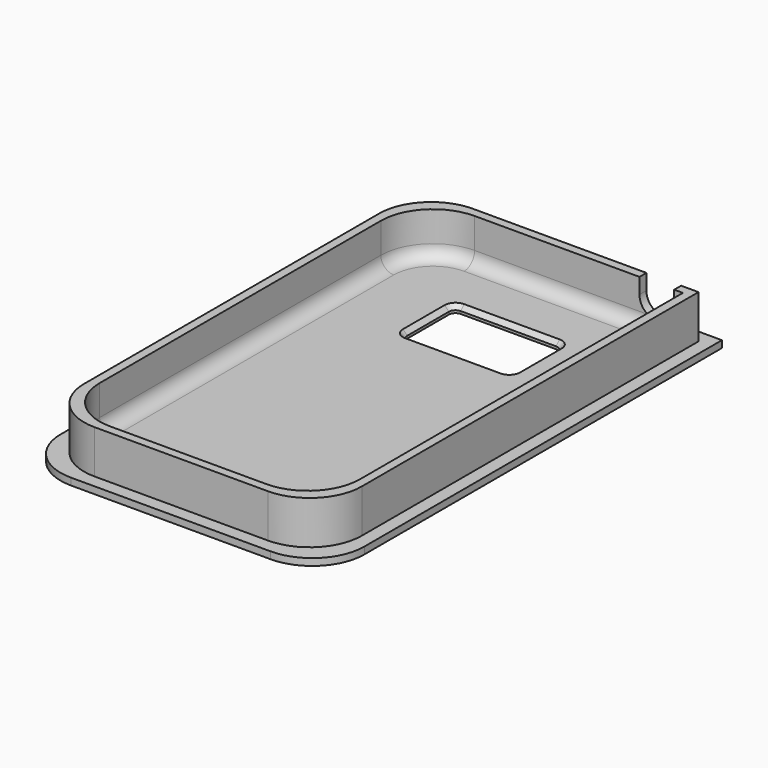
from build123d import *

# Parameters (mm, degrees)
PAD_DEPTH       = 1.6
PAD001_DEPTH    = 10
SKETCH004_R     = 1
POCKET_DEPTH    = 67.001
POCKET001_DEPTH = 5
CHAMFER_SIZE    = 1
FILLET_R        = 3
POCKET002_DEPTH = 5


with BuildPart() as part:
    # Sketch → Pad (new body)
    with BuildSketch(Plane.XY):
        with BuildLine():
            Line((12, 0), (58, 0))
            ThreePointArc((58, 0), (66.485281, 3.514719), (70, 12))
            Line((70, 12), (70, 115))
            Line((70, 115), (12, 115))
            ThreePointArc((12, 115), (3.514719, 111.485281), (0, 103))
            Line((0, 103), (0, 12))
            ThreePointArc((0, 12), (3.514719, 3.514719), (12, 0))
        make_face()
    extrude(amount=PAD_DEPTH)

    # Sketch001 → Pad001 (new body)
    with BuildSketch(Plane.XY.offset(1.6)):
        with BuildLine():
            Line((15, 3), (55, 3))
            ThreePointArc((55, 3), (63.485281, 6.514719), (67, 15))
            Line((67, 15), (67, 112))
            Line((67, 112), (15, 112))
            ThreePointArc((15, 112), (6.514719, 108.485281), (3, 100))
            Line((3, 100), (3, 15))
            ThreePointArc((3, 15), (6.514719, 6.514719), (15, 3))
        make_face()
        with BuildLine():
            Line((17, 5), (53, 5))
            ThreePointArc((53, 5), (61.485281, 8.514719), (65, 17))
            Line((65, 17), (65, 110))
            Line((65, 110), (17, 110))
            ThreePointArc((17, 110), (8.514719, 106.485281), (5, 98))
            Line((5, 98), (5, 17))
            ThreePointArc((5, 17), (8.514719, 8.514719), (17, 5))
        make_face(mode=Mode.SUBTRACT)
    extrude(amount=PAD001_DEPTH)

    # Sketch004 → Pocket (cut, through all)
    with BuildSketch(Plane.YZ.offset(67)):
        with Locations((-62, 7.1)):
            Circle(SKETCH004_R)
    extrude(amount=-POCKET_DEPTH, mode=Mode.SUBTRACT)

    # Sketch005 → Pocket001 (cut)
    with BuildSketch(Plane.XY.offset(1.6)):
        with BuildLine():
            Line((25, 96), (47, 96))
            ThreePointArc((48.5, 94.5), (48.06066, 95.56066), (47, 96))
            Line((48.5, 94.5), (48.5, 82.5))
            ThreePointArc((47, 81), (48.06066, 81.43934), (48.5, 82.5))
            Line((47, 81), (25, 81))
            ThreePointArc((23.5, 82.5), (23.93934, 81.43934), (25, 81))
            Line((23.5, 82.5), (23.5, 94.5))
            ThreePointArc((25, 96), (23.93934, 95.56066), (23.5, 94.5))
        make_face()
    extrude(amount=-POCKET001_DEPTH, mode=Mode.SUBTRACT)

    # Chamfer
    chamfer_edges = [part.edges().sort_by_distance(p)[0] for p in [
        (48.5, 88.5, 1.6),
        (48.06066, 95.56066, 1.6),
        (36, 96, 1.6),
        (23.93934, 95.56066, 1.6),
        (23.5, 88.5, 1.6),
        (23.93934, 81.43934, 1.6),
        (36, 81, 1.6),
        (48.06066, 81.43934, 1.6),
    ]]
    chamfer(chamfer_edges, length=CHAMFER_SIZE)

    # Fillet
    fillet_edges = [part.edges().sort_by_distance(p)[0] for p in [
        (41, 110, 1.6),
        (8.514719, 106.485281, 1.6),
        (65, 63.5, 1.6),
        (5, 57.5, 1.6),
        (8.514719, 8.514719, 1.6),
        (35, 5, 1.6),
    ]]
    fillet(fillet_edges, radius=FILLET_R)

    # Sketch006 → Pocket002 (cut)
    with BuildSketch(Plane(origin=(0, 112, 0), x_dir=(-1, 0, 0), z_dir=(0, 1, 0))):
        with BuildLine():
            ThreePointArc((-55, 18), (-59, 22), (-63, 18))
            Line((-63, 18), (-63, 8))
            ThreePointArc((-63, 8), (-59, 4), (-55, 8))
            Line((-55, 18), (-55, 8))
        make_face()
    extrude(amount=-POCKET002_DEPTH, mode=Mode.SUBTRACT)


solid = part.part
